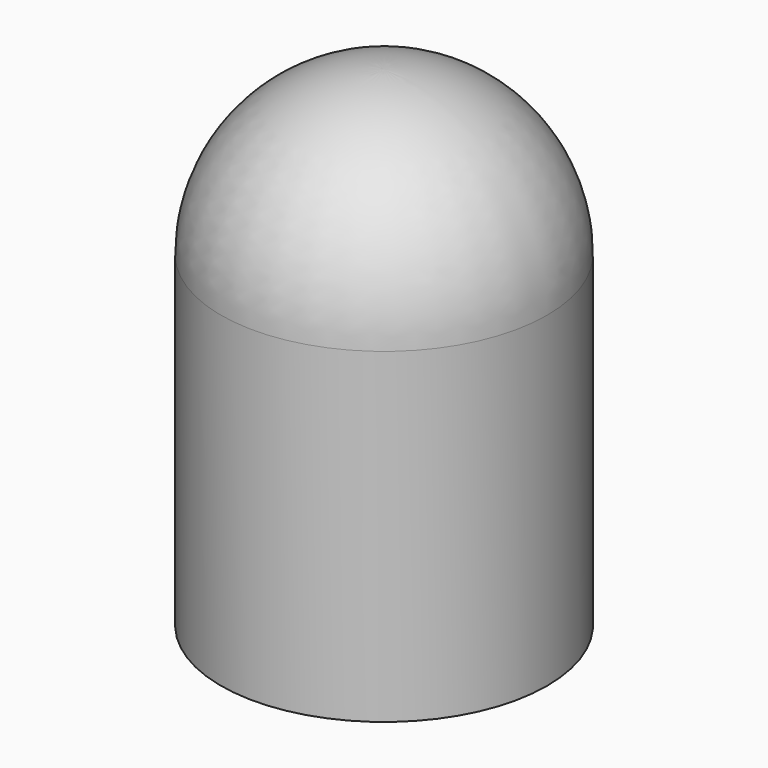
from build123d import *

# Parameters (mm, degrees)
F0_R     = 50.8
F1_DEPTH = 101.6
F4_T     = -1


with BuildPart() as f1:
    # F0 (on Top) → F1 (new body)
    with BuildSketch(Plane.XY):
        Circle(F0_R)
    extrude(amount=F1_DEPTH)

    # F2 (on Front) → F3 (revolve)
    with BuildSketch(Plane.XZ):
        with BuildLine():
            Line((0, 152.4), (0, 102.412574))
            Line((0, 102.412574), (0, 101.6))
            Line((0, 101.6), (50.8, 101.6))
            ThreePointArc((50.8, 101.6), (35.921024, 137.521024), (0, 152.4))
        make_face()
    revolve(axis=Axis((0, 0, 138.520729), (0, 0, 1)))

    # F4
    f4_openings = [f1.faces().sort_by_distance(p)[0] for p in [
        (0, 0, 0),
    ]]
    offset(amount=F4_T, openings=f4_openings)


solid = f1.part
